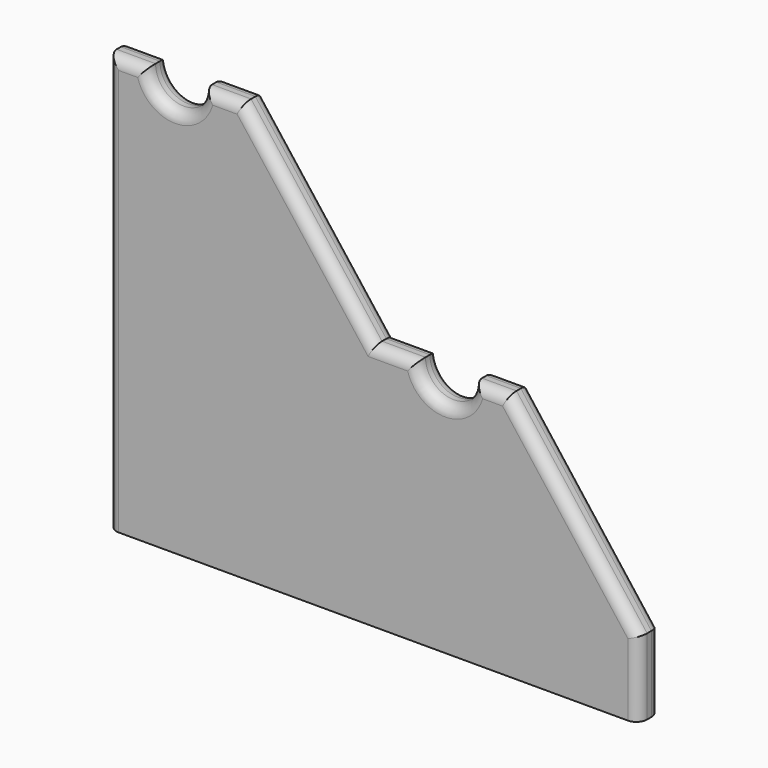
from build123d import *

# Parameters (mm, degrees)
F1_DEPTH = 12.7
F2_R     = 5.08
F3_W     = 402.312346
F3_H     = 25.619045
F4_DEPTH = 73.66
F5_R     = 13.081
F6_DEPTH = 6.35


with BuildPart() as f1:
    # F0 (on Front) → F1 (new body)
    with BuildSketch(Plane.XZ):
        with BuildLine():
            Line((0, 203.2), (0, 0))
            Line((0, 0), (250.542982, 0))
            Line((250.542982, 0), (250.542982, 41.870144))
            Line((250.542982, 41.870144), (188.859552, 122.602507))
            Line((188.859552, 122.602507), (172.564591, 122.602507))
            ThreePointArc((172.564591, 122.602507), (159.229591, 109.267507), (145.894591, 122.602507))
            Line((145.894591, 122.602507), (125.359552, 122.602507))
            Line((125.359552, 122.602507), (63.5, 203.2))
            Line((63.5, 203.2), (45.085, 203.2))
            ThreePointArc((45.085, 203.2), (31.75, 189.865), (18.415, 203.2))
            Line((18.415, 203.2), (0, 203.2))
        make_face()
    extrude(amount=F1_DEPTH)

    # F2
    f2_edges = [f1.edges().sort_by_distance(p)[0] for p in [
        (0, -12.7, 101.6),
        (125.271491, -12.7, 0),
        (250.542982, -12.7, 20.935072),
        (219.701267, -12.7, 82.236326),
        (180.712072, -12.7, 122.602507),
        (159.229591, -12.7, 109.267507),
        (135.627072, -12.7, 122.602507),
        (94.429776, -12.7, 162.901254),
        (54.2925, -12.7, 203.2),
        (31.75, -12.7, 189.865),
        (9.2075, -12.7, 203.2),
        (0, 0, 101.6),
        (125.271491, 0, 0),
        (250.542982, 0, 20.935072),
        (219.701267, 0, 82.236326),
        (180.712072, 0, 122.602507),
        (159.229591, 0, 109.267507),
        (135.627072, 0, 122.602507),
        (94.429776, 0, 162.901254),
        (54.2925, 0, 203.2),
        (31.75, 0, 189.865),
        (9.2075, 0, 203.2),
    ]]
    fillet(f2_edges, radius=F2_R)

    # F3 (on Front) → F4 (cut, symmetric)
    with BuildSketch(Plane.XZ):
        with Locations((92.536684, -6.778551)):
            Rectangle(F3_W, F3_H)
    extrude(amount=F4_DEPTH, both=True, mode=Mode.SUBTRACT)

    # F5 (on Front) → F6 (cut)
    with BuildSketch(Plane.XZ):
        with Locations((62.512301, 62.07348)):
            Circle(F5_R)
    extrude(amount=F6_DEPTH, mode=Mode.SUBTRACT)


solid = f1.part
